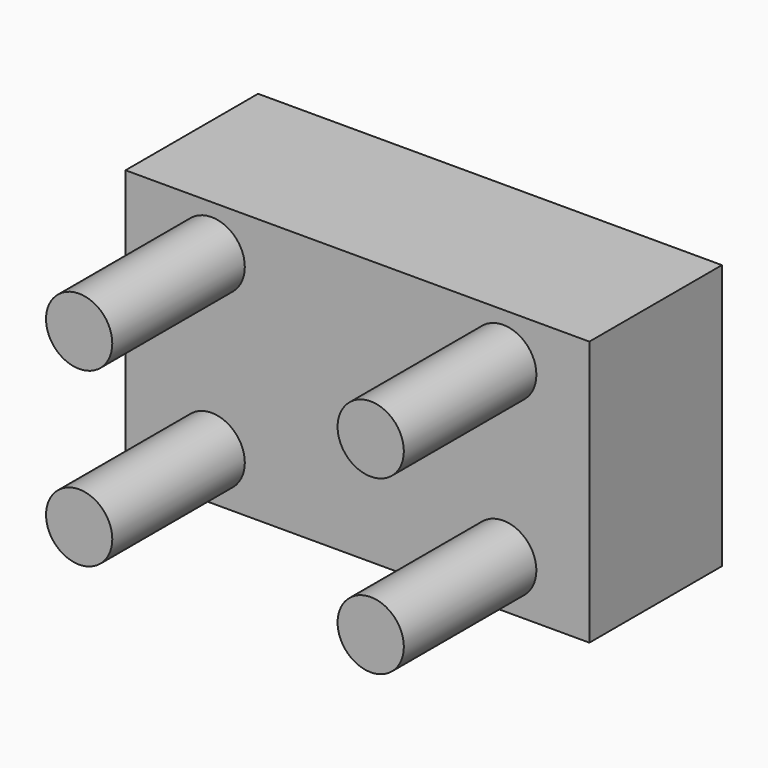
from build123d import *

# Parameters (mm, degrees)
F0_W     = 70
F0_H     = 40
F1_DEPTH = 25
F2_R     = 5
F3_DEPTH = 25


with BuildPart() as f1:
    # F0 (on Front) → F1 (new body)
    with BuildSketch(Plane.XZ):
        Rectangle(F0_W, F0_H)
    extrude(amount=F1_DEPTH)

    # F2 (on face) → F3 (join)
    with BuildSketch(Plane.XZ.offset(25)):
        with Locations((-22, -13)):
            Circle(F2_R)
        with Locations((-22, 13)):
            Circle(F2_R)
        with Locations((22, -13)):
            Circle(F2_R)
        with Locations((22, 13)):
            Circle(F2_R)
    extrude(amount=F3_DEPTH)


solid = f1.part
